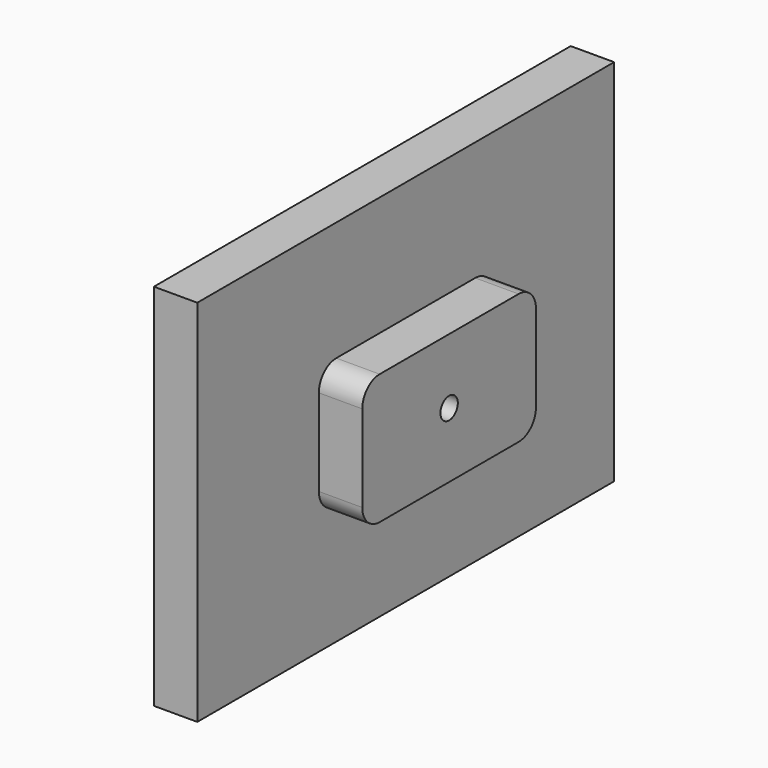
from build123d import *

# Parameters (mm, degrees)
F0_W     = 120
F0_H     = 85
F0_W_2   = 50
F0_H_2   = 30
F1_DEPTH = 10
F2_DEPTH = 20
F3_R     = 2.5
F4_DEPTH = 10
F5_R     = 5


with BuildPart() as f1:
    # F0 (on Right) → F1 (new body)
    with BuildSketch(Plane.YZ):
        Rectangle(F0_W, F0_H)
        Rectangle(F0_W_2, F0_H_2, mode=Mode.SUBTRACT)
        Rectangle(F0_W_2, F0_H_2)
    extrude(amount=F1_DEPTH)

    # F0 (on Right) → F2 (join)
    with BuildSketch(Plane.YZ):
        Rectangle(F0_W_2, F0_H_2)
    extrude(amount=F2_DEPTH)

    # F3 (on face) → F4 (cut)
    with BuildSketch(Plane.YZ.offset(20)):
        Circle(F3_R)
    extrude(amount=-F4_DEPTH, mode=Mode.SUBTRACT)

    # F5
    f5_edges = [f1.edges().sort_by_distance(p)[0] for p in [
        (15, -25, 15),
        (15, 25, 15),
        (15, -25, -15),
        (15, 25, -15),
    ]]
    fillet(f5_edges, radius=F5_R)


solid = f1.part
